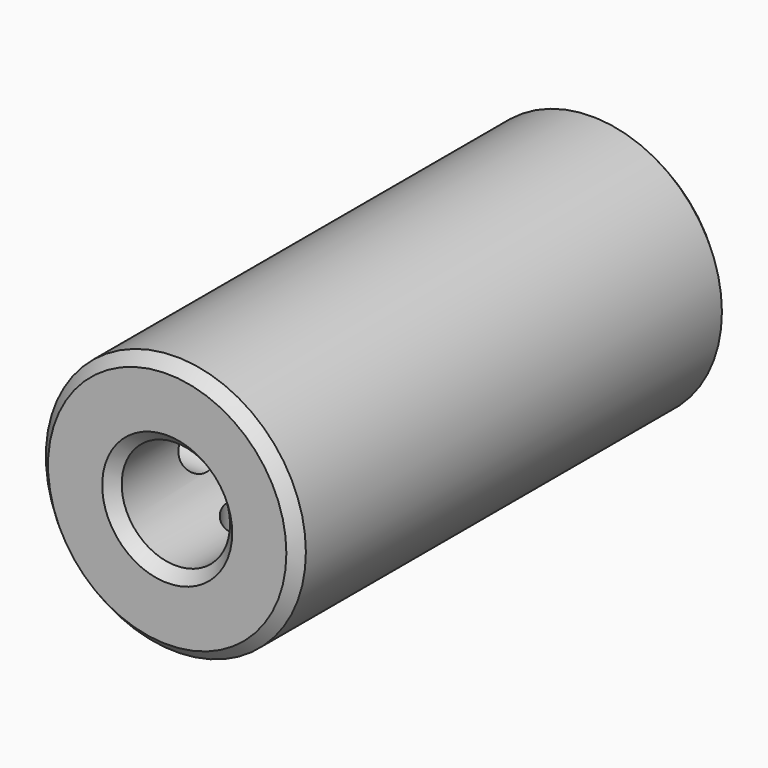
from build123d import *

# Parameters (mm, degrees)
F0_R     = 6
F0_R_2   = 2.5
F1_DEPTH = 25
F2_R     = 1.2295
F3_DEPTH = 25
F4_R     = 1.2295
F5_DEPTH = 25
F6_SIZE  = 0.5


with BuildPart() as f1:
    # F0 (on Front) → F1 (new body)
    with BuildSketch(Plane.XZ):
        Circle(F0_R)
        Circle(F0_R_2, mode=Mode.SUBTRACT)
    extrude(amount=F1_DEPTH)

    # F2 (on Top) → F3 (cut)
    with BuildSketch(Plane.XY):
        with Locations((0, -5)):
            Circle(F2_R)
        with Locations((0, -20)):
            Circle(F2_R)
    extrude(amount=-F3_DEPTH, mode=Mode.SUBTRACT)

    # F4 (on Right) → F5 (cut)
    with BuildSketch(Plane.YZ):
        with Locations((-5, 0)):
            Circle(F4_R)
        with Locations((-20, 0)):
            Circle(F4_R)
    extrude(amount=-F5_DEPTH, mode=Mode.SUBTRACT)

    # F6
    f6_edges = [f1.edges().sort_by_distance(p)[0] for p in [
        (-6, -25, 0),
        (-2.5, -25, 0),
        (-6, 0, 0),
        (-2.5, 0, 0),
    ]]
    chamfer(f6_edges, length=F6_SIZE)


solid = f1.part
